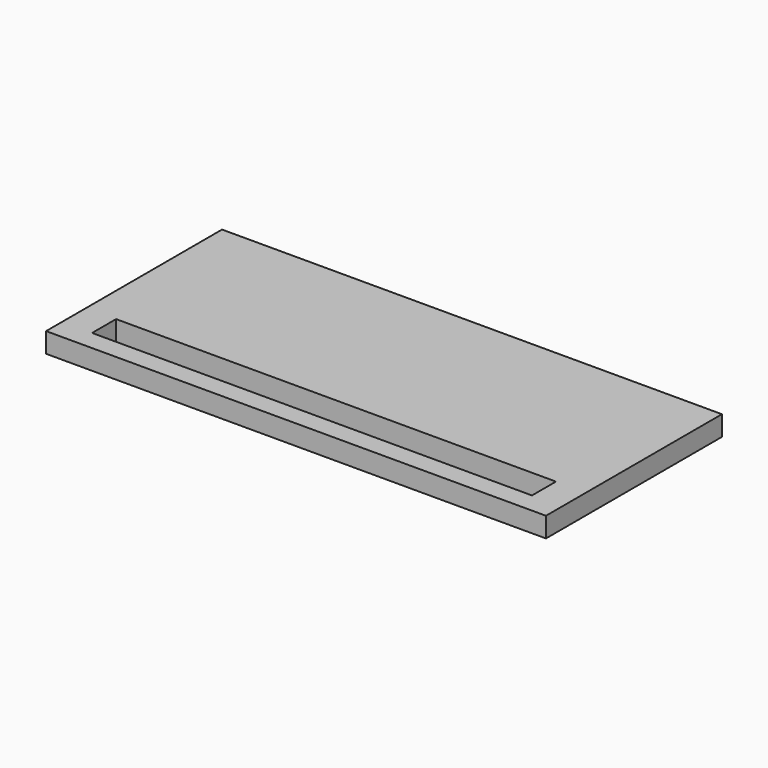
from build123d import *

# Parameters (mm, degrees)
BOX123_W     = 22
BOX123_H     = 1.5
BOX123_DEPTH = 2
BOX122_W     = 25
BOX122_H     = 11
BOX122_DEPTH = 1


with BuildPart() as longledhole002:
    # Box123 → Box123 (new body)
    with BuildSketch(Plane(origin=(1.5, 1, 0), x_dir=(1, 0, 0), z_dir=(0, 0, 1))):
        with Locations((11, 0.75)):
            Rectangle(BOX123_W, BOX123_H)
    extrude(amount=BOX123_DEPTH)


with BuildPart() as cut019:
    # Box122 → Box122 (new body)
    with BuildSketch(Plane.XY):
        with Locations((12.5, 5.5)):
            Rectangle(BOX122_W, BOX122_H)
    extrude(amount=BOX122_DEPTH)

    # Cut019: cut LongLedHole002
    add(longledhole002.part, mode=Mode.SUBTRACT)


solid = cut019.part
